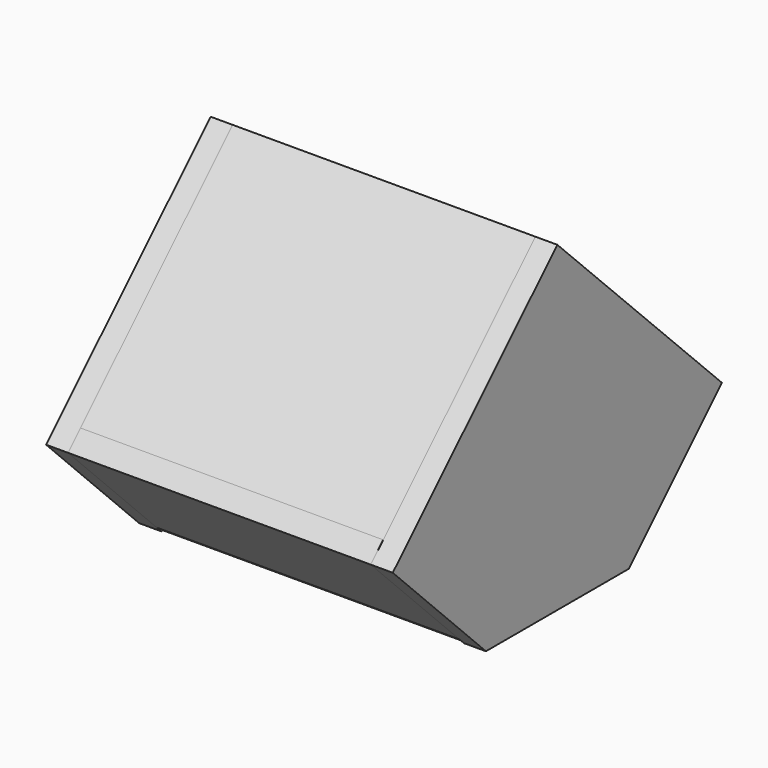
from build123d import *

# Parameters (mm, degrees)
F0_W          = 193
F0_H          = 111
F1_DEPTH      = 8.5
F2_W          = 20
F2_H          = 111
F3_DEPTH      = 5
F4_R          = 1.5
F5_DEPTH      = 5.001
F5_DEPTH_BACK = 2.5
F7_W          = 193
F7_H          = 100
F8_DEPTH      = 7
F11_DEPTH     = 14
F13_W         = 193
F13_H         = 171.1982
F14_DEPTH     = 14


with BuildPart() as f1:
    # F0 (on Top) → F1 (new body)
    with BuildSketch(Plane.XY):
        Rectangle(F0_W, F0_H)
    extrude(amount=F1_DEPTH)


with BuildPart() as f3:
    # F2 (on face) → F3 (new body)
    with BuildSketch(Plane.XY.offset(8.5)):
        with Locations((-63.96, 0)):
            Rectangle(F2_W, F2_H)
        with Locations((63.96, 0)):
            Rectangle(F2_W, F2_H)
    extrude(amount=F3_DEPTH)


with BuildPart() as f5_tool:
    # F4 (on face) → F5 (new body, two sides)
    with BuildSketch(Plane.XY.offset(8.5)) as f5_sk:
        with Locations((-63.96, 33.92)):
            Circle(F4_R)
        with Locations((63.96, 33.92)):
            Circle(F4_R)
        with Locations((-63.96, -33.92)):
            Circle(F4_R)
        with Locations((63.96, -33.92)):
            Circle(F4_R)
    extrude(amount=F5_DEPTH)
    extrude(f5_sk.sketch, amount=-F5_DEPTH_BACK)


with BuildPart() as f1_1:
    add(f1.part)

    # F5: cut by f5_tool
    add(f5_tool.part, mode=Mode.SUBTRACT)


with BuildPart() as f3_1:
    add(f3.part)

    # F5: cut by f5_tool
    add(f5_tool.part, mode=Mode.SUBTRACT)


with BuildPart() as f8:
    # F7 (on face) → F8 (new body, symmetric)
    with BuildSketch(Plane(origin=(0, -23.5, -23.5), x_dir=(-1, 0, 0), z_dir=(0, 0.707107, 0.707107))):
        with Locations((0, 95.254834)):
            Rectangle(F7_W, F7_H)
    extrude(amount=F8_DEPTH, both=True)


with BuildPart() as f9_1:
    # F9: instance of F8
    add(f8.part.mirror(Plane.XZ))


with BuildPart() as f11:
    # F10 (on face) → F11 (new body)
    with BuildSketch(Plane(origin=(-96.5, 0, 0), x_dir=(0, -1, 0), z_dir=(-1, 0, 0))):
        Polygon((56.899495, 0), (131.160426, 74.260931), (0, 205.009963), (-131.160426, 74.260931), (-57.132419, 0), align=None)
    extrude(amount=F11_DEPTH)


with BuildPart() as f12_1:
    # F12: instance of F11
    add(f11.part.mirror(Plane.YZ))


with BuildPart() as f14:
    # F13 (on face) → F14 (new body)
    with BuildSketch(Plane(origin=(0, -102.504476, 102.826999), x_dir=(1, 0, 0), z_dir=(0, -0.705995, 0.708217))):
        with Locations((0, 59.136955)):
            Rectangle(F13_W, F13_H)
    extrude(amount=-F14_DEPTH)


solid = Compound([f1_1.part, f3_1.part, f8.part, f9_1.part, f11.part, f12_1.part, f14.part])
